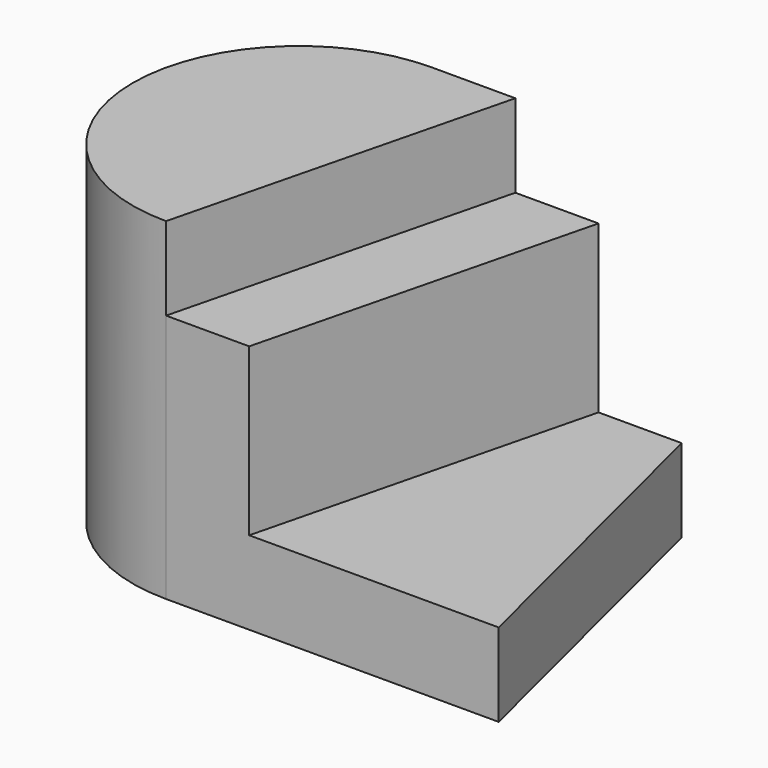
from build123d import *

# Parameters (mm, degrees)
F1_DEPTH = 40
F2_DEPTH = 30
F3_DEPTH = 10


with BuildPart() as f1:
    # F0 (on Top) → F1 (new body)
    with BuildSketch(Plane.XY):
        with BuildLine():
            Line((10, 20), (0, 20))
            ThreePointArc((0, 20), (-20, 0), (0, -20))
            Line((0, -20), (10, 20))
        make_face()
    extrude(amount=F1_DEPTH)

    # F0 (on Top) → F2 (join)
    with BuildSketch(Plane.XY):
        Polygon((10, 20), (0, -20), (10, -20), (20, 20), align=None)
    extrude(amount=F2_DEPTH)

    # F0 (on Top) → F3 (join)
    with BuildSketch(Plane.XY):
        Polygon((20, 20), (10, -20), (40, -20), (30, 20), align=None)
    extrude(amount=F3_DEPTH)


solid = f1.part
